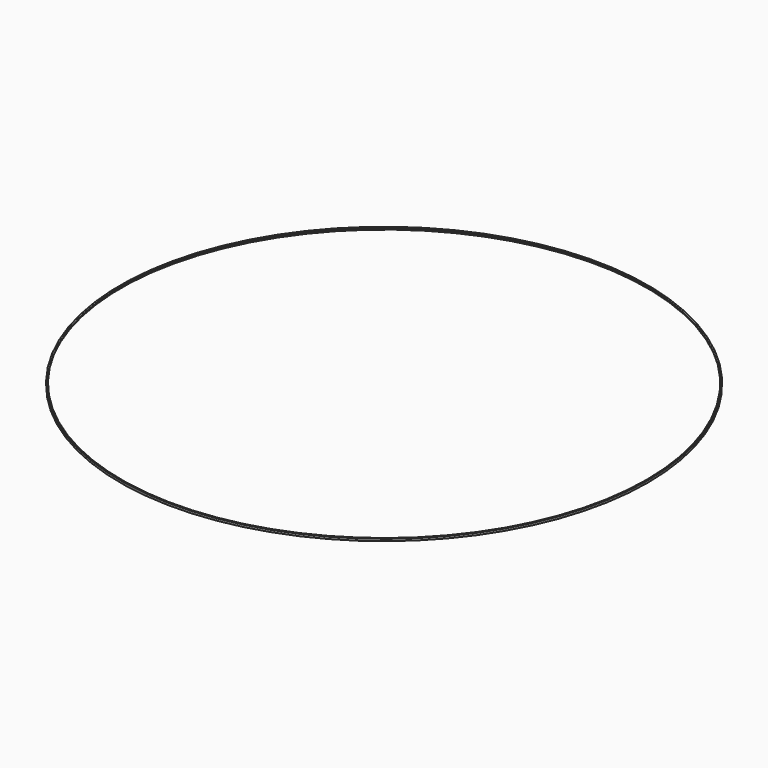
from build123d import *

# Parameters (mm, degrees)
F3_W     = 1225
F3_H     = 85.465123
F4_DEPTH = 2400


with BuildPart() as f2:
    # F2: sweep along a path in F1
    with BuildLine(Plane.XY) as f2_path:
        CenterArc((3045.050405, 0), 3045, 0, 360)
    # F0 (on Front) → F2 (sweep)
    with BuildSketch(Plane.XZ):
        Polygon((16.794275, 11.384281), (0.01, 11.384281), (0.01, -12.385881), (11.001622, -12.385881), (11.001622, -10.419134), (11.001622, -9.070487), (9.33952, -9.070487), (9.33952, -10.419134), (1.884766, -10.419134), (1.884766, 4.380418), (9.33952, 4.380418), (9.33952, 3.463338), (11.001622, 3.463338), (11.001622, 4.380418), (16.794275, 4.380418), (16.794275, 5.944849), (1.884766, 5.944849), (1.884766, 7.544847), (1.884766, 9.648737), (16.794275, 9.648737), align=None)
    sweep(path=f2_path.line)

    # F3 (on Front) → F4 (cut)
    with BuildSketch(Plane.XZ):
        with Locations((2287.675023, -4.19138)):
            Rectangle(F3_W, F3_H)
    extrude(amount=F4_DEPTH, mode=Mode.SUBTRACT)


solid = f2.part
